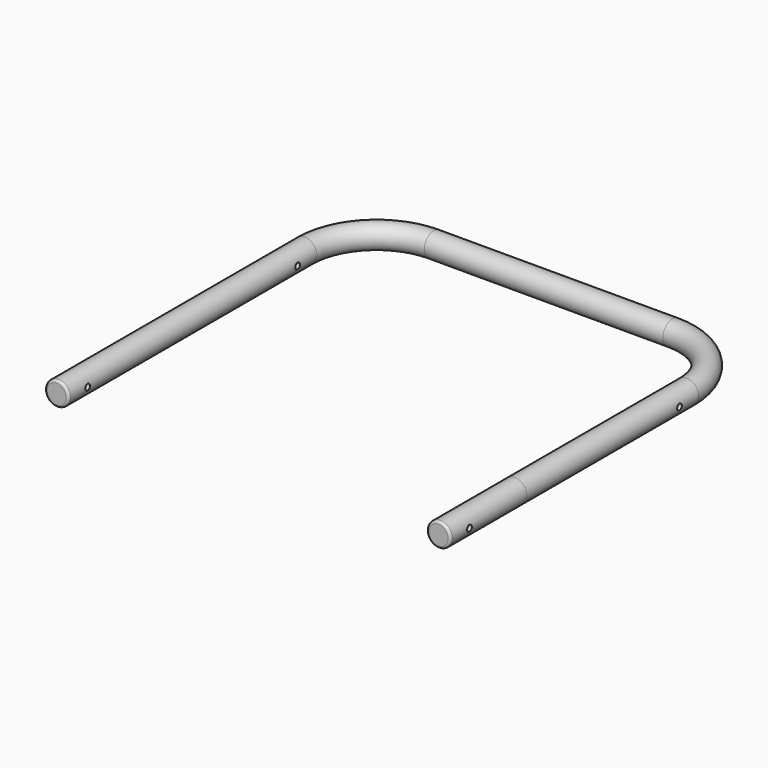
from build123d import *

# Parameters (mm, degrees)
F2_R          = 12.7
F6_DEPTH      = 19.05
F6_DEPTH_BACK = 430.53
F8_R          = 3.175
F9_DEPTH      = 19.05
F9_DEPTH_BACK = 425.958
F10_R         = 2.54


with BuildPart() as f3:
    # F3: sweep along a path in F1
    with BuildLine(Plane.XY) as f3_path:
        Line((-203.2, -101.6), (-203.2, 0))
        Line((-203.2, 0), (-203.2, 228.6))
        ThreePointArc((-203.2, 228.6), (-180.8815367264, 282.4815367264), (-127, 304.8))
        Line((-127, 304.8), (0, 304.8))
        Line((0, 304.8), (127, 304.8))
        ThreePointArc((127, 304.8), (180.8815367264, 282.4815367264), (203.2, 228.6))
        Line((203.2, 228.6), (203.2, 0))
    # F2 (on offset) → F3 (sweep)
    with BuildSketch(Plane.XZ.offset(101.6)):
        with Locations((-203.2, 0)):
            Circle(F2_R)
    sweep(path=f3_path.line)

    # F5 (on offset) → F6 (cut, two sides)
    with BuildSketch(Plane.YZ.offset(203.2)) as f6_sk:
        with BuildLine():
            ThreePointArc((200.025, 0), (203.2, -3.175), (206.375, 0))
            ThreePointArc((206.375, 0), (203.2, 3.175), (200.025, 0))
        make_face()
    extrude(amount=F6_DEPTH, mode=Mode.SUBTRACT)
    extrude(f6_sk.sketch, amount=-F6_DEPTH_BACK, mode=Mode.SUBTRACT)

    # F7: F3 across plane


with BuildPart() as f3_1:
    add(f3.part)
    add(f3.part.mirror(Plane.YZ))

    # F8 (on offset) → F9 (cut, two sides)
    with BuildSketch(Plane.YZ.offset(203.2)) as f9_sk:
        with Locations((-76.2, 0)):
            Circle(F8_R)
    extrude(amount=F9_DEPTH, mode=Mode.SUBTRACT)
    extrude(f9_sk.sketch, amount=-F9_DEPTH_BACK, mode=Mode.SUBTRACT)

    # F10
    f10_edges = [f3_1.edges().sort_by_distance(p)[0] for p in [
        (-215.9, -101.6, 0),
        (215.9, -101.6, 0),
    ]]
    fillet(f10_edges, radius=F10_R)


solid = f3_1.part
